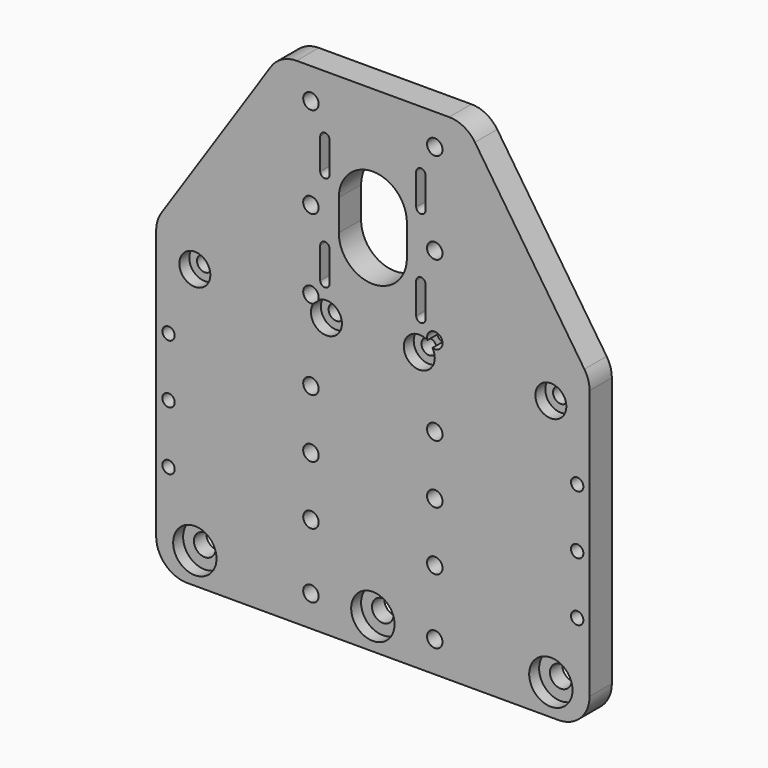
from build123d import *

# Parameters (mm, degrees)
F0_R     = 7
F0_R_2   = 2
F0_R_3   = 2.5
F0_R_4   = 5
F1_DEPTH = 9
F0_R_5   = 3.5
F2_DEPTH = 5


with BuildPart() as f1:
    # F0 (on Front) → F1 (new body)
    with BuildSketch(Plane.XZ):
        with BuildLine():
            ThreePointArc((-70, 10), (-67.071068, 2.928932), (-60, 0))
            Line((-60, 0), (60, 0))
            ThreePointArc((60, 0), (67.071068, 2.928932), (70, 10))
            Line((70, 10), (70, 96.972244))
            ThreePointArc((70, 96.972244), (69.57092, 99.870085), (68.320503, 102.519246))
            Line((68.320503, 102.519246), (32.968665, 155.547002))
            ThreePointArc((32.968665, 155.547002), (29.366742, 158.816746), (24.648162, 160))
            Line((24.648162, 160), (-24.648162, 160))
            ThreePointArc((-24.648162, 160), (-29.366742, 158.816746), (-32.968665, 155.547002))
            Line((-32.968665, 155.547002), (-68.320503, 102.519246))
            ThreePointArc((-68.320503, 102.519246), (-69.57092, 99.870085), (-70, 96.972244))
            Line((-70, 96.972244), (-70, 10))
        make_face()
        with Locations((-57.5, 10)):
            Circle(F0_R, mode=Mode.SUBTRACT)
        with Locations((-66, 31)):
            Circle(F0_R_2, mode=Mode.SUBTRACT)
        with Locations((-20, 10)):
            Circle(F0_R_3, mode=Mode.SUBTRACT)
        with Locations((-20, 31)):
            Circle(F0_R_3, mode=Mode.SUBTRACT)
        with Locations((-66, 50)):
            Circle(F0_R_2, mode=Mode.SUBTRACT)
        with Locations((-66, 69)):
            Circle(F0_R_2, mode=Mode.SUBTRACT)
        with Locations((-20, 50)):
            Circle(F0_R_3, mode=Mode.SUBTRACT)
        with Locations((-20, 69)):
            Circle(F0_R_3, mode=Mode.SUBTRACT)
        with Locations((0, 10)):
            Circle(F0_R, mode=Mode.SUBTRACT)
        with Locations((20, 10)):
            Circle(F0_R_3, mode=Mode.SUBTRACT)
        with Locations((20, 31)):
            Circle(F0_R_3, mode=Mode.SUBTRACT)
        with Locations((57.5, 10)):
            Circle(F0_R, mode=Mode.SUBTRACT)
        with Locations((66, 31)):
            Circle(F0_R_2, mode=Mode.SUBTRACT)
        with Locations((20, 50)):
            Circle(F0_R_3, mode=Mode.SUBTRACT)
        with Locations((20, 69)):
            Circle(F0_R_3, mode=Mode.SUBTRACT)
        with Locations((66, 50)):
            Circle(F0_R_2, mode=Mode.SUBTRACT)
        with Locations((66, 69)):
            Circle(F0_R_2, mode=Mode.SUBTRACT)
        with Locations((-57.5, 90)):
            Circle(F0_R_4, mode=Mode.SUBTRACT)
        with BuildLine():
            ThreePointArc((-19.264297, 92.610703), (-22.011126, 96.485049), (-17.5, 95))
            ThreePointArc((-17.5, 95), (-17.527831, 94.628008), (-17.610703, 94.264297))
            ThreePointArc((-17.610703, 94.264297), (-12.555978, 94.361967), (-10, 90))
            ThreePointArc((-10, 90), (-16.356192, 85.187439), (-19.264297, 92.610703))
        make_face(mode=Mode.SUBTRACT)
        with BuildLine():
            ThreePointArc((-17, 110), (-15.5, 111.5), (-14, 110))
            Line((-14, 110), (-14, 100))
            ThreePointArc((-14, 100), (-15.5, 98.5), (-17, 100))
            Line((-17, 100), (-17, 110))
        make_face(mode=Mode.SUBTRACT)
        with Locations((-20, 120.5)):
            Circle(F0_R_3, mode=Mode.SUBTRACT)
        with BuildLine():
            ThreePointArc((-17, 141), (-15.5, 142.5), (-14, 141))
            Line((-14, 141), (-14, 131))
            ThreePointArc((-14, 131), (-15.5, 129.5), (-17, 131))
            Line((-17, 131), (-17, 141))
        make_face(mode=Mode.SUBTRACT)
        with Locations((-20, 150)):
            Circle(F0_R_3, mode=Mode.SUBTRACT)
        with BuildLine():
            ThreePointArc((17.610703, 94.264297), (19.628008, 97.472169), (22.5, 95))
            ThreePointArc((22.5, 95), (21.485049, 92.988874), (19.264297, 92.610703))
            ThreePointArc((19.264297, 92.610703), (19.812561, 91.356192), (20, 90))
            ThreePointArc((20, 90), (10.638033, 87.555978), (17.610703, 94.264297))
        make_face(mode=Mode.SUBTRACT)
        with BuildLine():
            ThreePointArc((14, 110), (15.5, 111.5), (17, 110))
            Line((17, 110), (17, 100))
            ThreePointArc((17, 100), (15.5, 98.5), (14, 100))
            Line((14, 100), (14, 110))
        make_face(mode=Mode.SUBTRACT)
        with Locations((57.5, 90)):
            Circle(F0_R_4, mode=Mode.SUBTRACT)
        with BuildLine():
            ThreePointArc((-11, 125.5), (0, 136.5), (11, 125.5))
            Line((11, 125.5), (11, 115.5))
            ThreePointArc((11, 115.5), (0, 104.5), (-11, 115.5))
            Line((-11, 115.5), (-11, 125.5))
        make_face(mode=Mode.SUBTRACT)
        with BuildLine():
            ThreePointArc((14, 141), (15.5, 142.5), (17, 141))
            Line((17, 141), (17, 131))
            ThreePointArc((17, 131), (15.5, 129.5), (14, 131))
            Line((14, 131), (14, 141))
        make_face(mode=Mode.SUBTRACT)
        with Locations((20, 120.5)):
            Circle(F0_R_3, mode=Mode.SUBTRACT)
        with Locations((20, 150)):
            Circle(F0_R_3, mode=Mode.SUBTRACT)
    extrude(amount=F1_DEPTH)

    # F0 (on Front) → F2 (join)
    with BuildSketch(Plane.XZ):
        with Locations((-57.5, 90)):
            Circle(F0_R_4)
        with Locations((-57.5, 90)):
            Circle(F0_R_3, mode=Mode.SUBTRACT)
        with BuildLine():
            ThreePointArc((-17.610703, 94.264297), (-18.232233, 93.232233), (-19.264297, 92.610703))
            ThreePointArc((-19.264297, 92.610703), (-16.356192, 85.187439), (-10, 90))
            ThreePointArc((-10, 90), (-12.555978, 94.361967), (-17.610703, 94.264297))
        make_face()
        with Locations((-15, 90)):
            Circle(F0_R_3, mode=Mode.SUBTRACT)
        with BuildLine():
            ThreePointArc((19.264297, 92.610703), (18.232233, 93.232233), (17.610703, 94.264297))
            ThreePointArc((17.610703, 94.264297), (10.638033, 87.555978), (20, 90))
            ThreePointArc((20, 90), (19.812561, 91.356192), (19.264297, 92.610703))
        make_face()
        with Locations((15, 90)):
            Circle(F0_R_3, mode=Mode.SUBTRACT)
        with Locations((57.5, 90)):
            Circle(F0_R_4)
        with Locations((57.5, 90)):
            Circle(F0_R_3, mode=Mode.SUBTRACT)
        with Locations((57.5, 10)):
            Circle(F0_R)
        with Locations((57.5, 10)):
            Circle(F0_R_5, mode=Mode.SUBTRACT)
        with Locations((0, 10)):
            Circle(F0_R)
        with Locations((0, 10)):
            Circle(F0_R_5, mode=Mode.SUBTRACT)
        with Locations((-57.5, 10)):
            Circle(F0_R)
        with Locations((-57.5, 10)):
            Circle(F0_R_5, mode=Mode.SUBTRACT)
    extrude(amount=F2_DEPTH)


solid = f1.part
